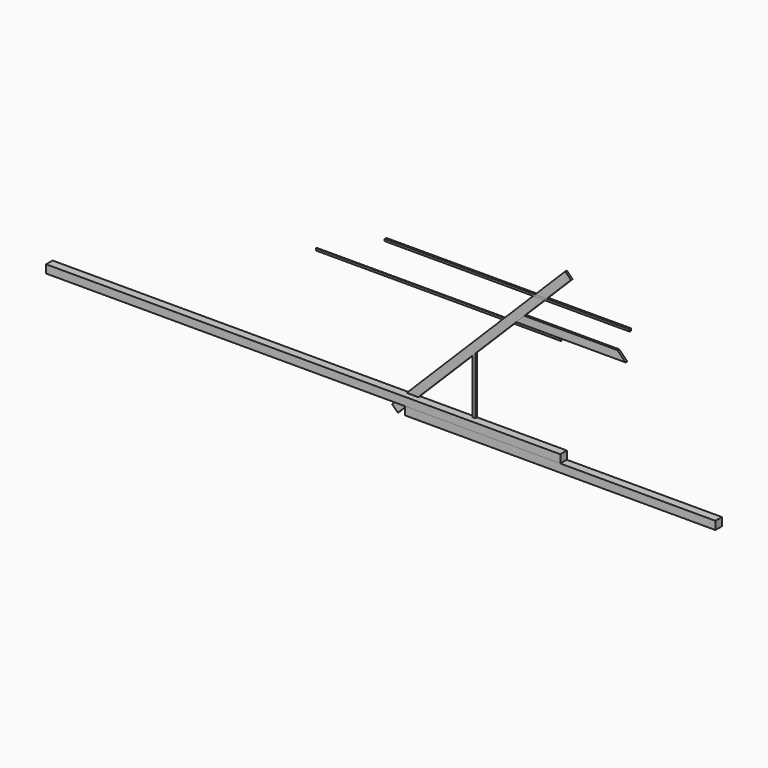
from build123d import *

# Parameters (mm, degrees)
F1_DEPTH  = 200
F2_DEPTH  = 50
F3_DEPTH  = 50
F4_DEPTH  = 50
F5_W      = 12600
F5_H      = 200
F6_DEPTH  = 200
F7_W      = 6000
F7_H      = 50
F8_DEPTH  = 22
F9_W      = 6000
F9_H      = 50
F10_DEPTH = 50


with BuildPart() as f1:
    # F0 (on Front) → F1 (new body)
    with BuildSketch(Plane.XZ):
        Polygon((-2270, 0), (-3800, 0), (-3800, -200), (3800, -200), (3800, 0), (2270, 0), (2200, 0), (-2200, 0), align=None)
    extrude(amount=F1_DEPTH)


with BuildPart() as f2:
    # F0 (on Front) → F2 (new body)
    with BuildSketch(Plane.XZ):
        Polygon((-2270, 1530), (-2270, 0), (-2200, 0), (-2200, 1600), align=None)
    extrude(amount=F2_DEPTH)


with BuildPart() as f3:
    # F0 (on Front) → F3 (new body)
    with BuildSketch(Plane.XZ):
        Polygon((-1482.8427124746, 2600), (-1200, 2600), (-1000, 2800), (-1282.8427124746, 2800), align=None)
        Polygon((-1000, 2800), (-1200, 2600), (1200, 2600), (1000, 2800), align=None)
        Polygon((1000, 2800), (1200, 2600), (1482.8427124746, 2600), (1282.8427124746, 2800), align=None)
    extrude(amount=F3_DEPTH)


with BuildPart() as f4:
    # F0 (on Front) → F4 (new body)
    with BuildSketch(Plane.XZ):
        Polygon((-4101.219330882, -301.219330882), (-3800, 0), (-2270, 1530), (-2200, 1600), (-1200, 2600), (-1482.8427124746, 2600), (-4242.6406871193, -159.7979746447), align=None)
        Polygon((-1482.8427124746, 2600), (-1200, 2600), (-1000, 2800), (-1282.8427124746, 2800), align=None)
        Polygon((-1282.8427124746, 2800), (-1000, 2800), (0, 3800), (-141.4213562373, 3941.4213562373), align=None)
        Polygon((-141.4213562373, 3941.4213562373), (0, 3800), (141.4213562373, 3941.4213562373), (0, 4082.8427124746), align=None)
    extrude(amount=F4_DEPTH)


with BuildPart() as f6:
    # F5 (on Front) → F6 (new body)
    with BuildSketch(Plane.XZ):
        with Locations((-6300, 100)):
            Rectangle(F5_W, F5_H)
    extrude(amount=F6_DEPTH)


with BuildPart() as f8:
    # F7 (on Front) → F8 (new body)
    with BuildSketch(Plane.XZ):
        with Locations((-3129.3168067932, 2552.6093482971)):
            Rectangle(F7_W, F7_H)
    extrude(amount=F8_DEPTH)


with BuildPart() as f10:
    # F9 (on Front) → F10 (new body)
    with BuildSketch(Plane.XZ):
        with Locations((-1421.7028617859, 3321.6012954712)):
            Rectangle(F9_W, F9_H)
    extrude(amount=F10_DEPTH)


solid = Compound([f1.part, f2.part, f3.part, f4.part, f6.part, f8.part, f10.part])
